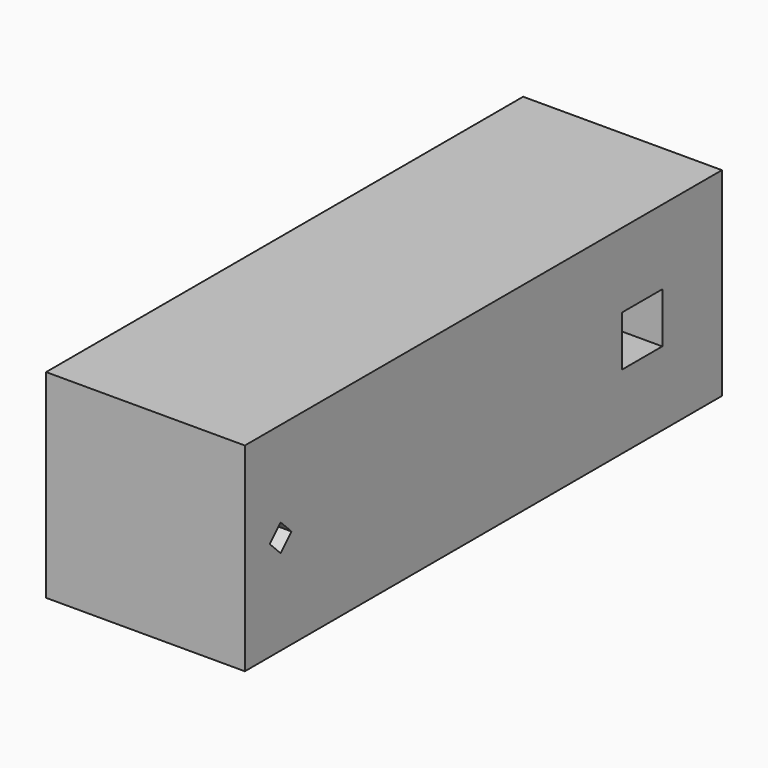
from build123d import *

# Parameters (mm, degrees)
F0_W     = 32
F0_H     = 96
F1_DEPTH = 32
F2_W     = 8.1
F2_H     = 8.1
F3_DEPTH = 8.1
F5_DEPTH = 4.1


with BuildPart() as f1:
    # F0 (on Top) → F1 (new body)
    with BuildSketch(Plane.XY):
        Rectangle(F0_W, F0_H)
    extrude(amount=F1_DEPTH)

    # F2 (on face) → F3 (cut)
    with BuildSketch(Plane.YZ.offset(16)):
        with Locations((31.95, 15.95)):
            Rectangle(F2_W, F2_H)
    extrude(amount=-F3_DEPTH, mode=Mode.SUBTRACT)

    # F4 (on face) → F5 (cut)
    with BuildSketch(Plane.YZ.offset(16)):
        Polygon((-38.615938, 16), (-40.807969, 18.192031), (-43, 16), (-40.807969, 13.807969), align=None)
    extrude(amount=-F5_DEPTH, mode=Mode.SUBTRACT)


solid = f1.part
